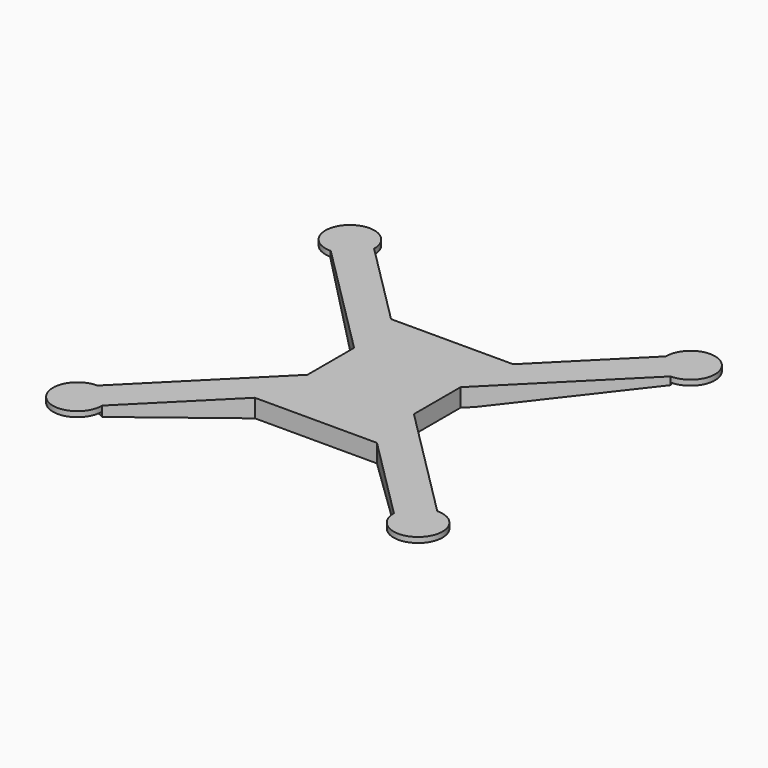
from build123d import *

# Parameters (mm, degrees)
F1_DEPTH = 2.5
F3_DEPTH = 6
F5_DEPTH = 100


with BuildPart() as f1:
    # F0 (on Top) → F1 (new body)
    with BuildSketch(Plane.XY):
        with BuildLine():
            Line((-79.815194, 68.501485), (-25, 13.686292))
            Line((-25, 13.686292), (-25, -13.686292))
            Line((-25, -13.686292), (-79.815194, -68.501485))
            ThreePointArc((-79.815194, -68.501485), (-88.131728, -88.131728), (-68.501485, -79.815194))
            Line((-68.501485, -79.815194), (-28.686292, -40))
            Line((-28.686292, -40), (28.686292, -40))
            Line((28.686292, -40), (68.501485, -79.815194))
            ThreePointArc((68.501485, -79.815194), (88.131728, -88.131728), (79.815194, -68.501485))
            Line((79.815194, -68.501485), (25, -13.686292))
            Line((25, -13.686292), (25, 13.686292))
            Line((25, 13.686292), (79.815194, 68.501485))
            ThreePointArc((79.815194, 68.501485), (88.131728, 88.131728), (68.501485, 79.815194))
            Line((68.501485, 79.815194), (28.686292, 40))
            Line((28.686292, 40), (-28.686292, 40))
            Line((-28.686292, 40), (-68.501485, 79.815194))
            ThreePointArc((-68.501485, 79.815194), (-88.131728, 88.131728), (-79.815194, 68.501485))
        make_face()
    extrude(amount=F1_DEPTH)

    # F2 (on Top) → F3 (join)
    with BuildSketch(Plane.XY):
        Polygon((-29.928932, -37), (-71.603911, -78.674978), (-68.501485, -79.815194), (-28.686292, -40), (28.686292, -40), (68.501485, -79.815194), (71.603911, -78.674978), (29.928932, -37), align=None)
        Polygon((-78.674978, -71.603911), (-22, -14.928932), (-22, 14.928932), (-78.674978, 71.603911), (-79.815194, 68.501485), (-25, 13.686292), (-25, -13.686292), (-79.815194, -68.501485), align=None)
        Polygon((22, 14.928932), (22, -14.928932), (78.674978, -71.603911), (79.815194, -68.501485), (25, -13.686292), (25, 13.686292), (79.815194, 68.501485), (78.674978, 71.603911), align=None)
        Polygon((29.928932, 37), (71.603911, 78.674978), (68.501485, 79.815194), (28.686292, 40), (-28.686292, 40), (-68.501485, 79.815194), (-71.603911, 78.674978), (-29.928932, 37), align=None)
    extrude(amount=-F3_DEPTH)

    # F4 (on Front) → F5 (cut, symmetric)
    with BuildSketch(Plane.XZ):
        Polygon((-28.709985, -15.796961), (-28.709985, -6.029143), (-91.463856, 0), (-91.463856, -15.796961), align=None)
        Polygon((28.709985, -6.029143), (28.709985, -15.796961), (91.463856, -15.796961), (91.463856, 0), align=None)
    extrude(amount=F5_DEPTH, both=True, mode=Mode.SUBTRACT)


solid = f1.part
